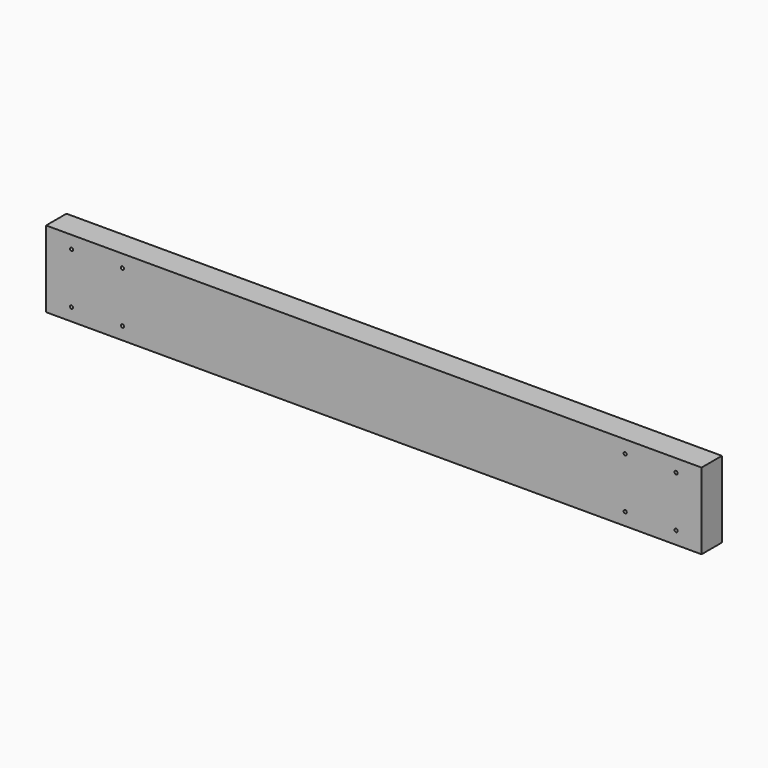
from build123d import *

# Parameters (mm, degrees)
F0_W     = 1308.1
F0_H     = 152.4
F0_R     = 3.175
F1_DEPTH = 50.8


with BuildPart() as f1:
    # F0 (on Front) → F1 (new body)
    with BuildSketch(Plane.XZ):
        with Locations((120.434581, -553.37246)):
            Rectangle(F0_W, F0_H)
        with Locations((-482.815419, -604.17246)):
            Circle(F0_R, mode=Mode.SUBTRACT)
        with Locations((-381.215419, -604.17246)):
            Circle(F0_R, mode=Mode.SUBTRACT)
        with Locations((622.084581, -604.17246)):
            Circle(F0_R, mode=Mode.SUBTRACT)
        with Locations((723.684581, -604.17246)):
            Circle(F0_R, mode=Mode.SUBTRACT)
        with Locations((-482.815419, -502.57246)):
            Circle(F0_R, mode=Mode.SUBTRACT)
        with Locations((-381.215419, -502.57246)):
            Circle(F0_R, mode=Mode.SUBTRACT)
        with Locations((622.084581, -502.57246)):
            Circle(F0_R, mode=Mode.SUBTRACT)
        with Locations((723.684581, -502.57246)):
            Circle(F0_R, mode=Mode.SUBTRACT)
    extrude(amount=F1_DEPTH)


solid = f1.part
